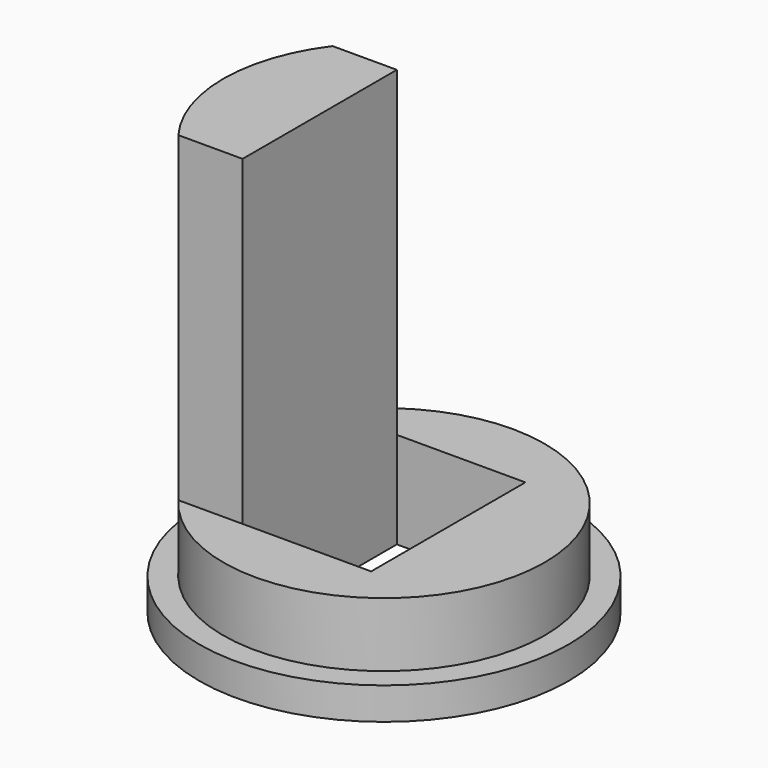
from build123d import *

# Parameters (mm, degrees)
F0_R     = 5
F0_W     = 4
F0_H     = 6
F1_DEPTH = 2
F2_R     = 5.75
F2_W     = 4
F2_H     = 6
F3_DEPTH = 1
F5_DEPTH = 10
F7_DEPTH = 8.751


with BuildPart() as f1:
    # F0 (on Top) → F1 (new body)
    with BuildSketch(Plane.XY):
        with Locations((-2, -3)):
            Circle(F0_R)
        with Locations((-2, -3)):
            Rectangle(F0_W, F0_H, mode=Mode.SUBTRACT)
    extrude(amount=F1_DEPTH)

    # F2 (on face) → F3 (join)
    with BuildSketch(Plane(origin=(0, 0, 0), x_dir=(1, 0, 0), z_dir=(0, 0, -1))):
        with Locations((-2, 3)):
            Circle(F2_R)
        with Locations((-2, 3)):
            Rectangle(F2_W, F2_H, mode=Mode.SUBTRACT)
    extrude(amount=F3_DEPTH)

    # F4 (on face) → F5 (join)
    with BuildSketch(Plane.XY.offset(2)):
        with BuildLine():
            Line((-4, -6), (-4, 0))
            Line((-4, 0), (-6, 0))
            ThreePointArc((-6, 0), (-7, -3), (-6, -6))
            Line((-6, -6), (-4, -6))
        make_face()
    extrude(amount=F5_DEPTH)

    # F6 (on face) → F7 (cut, through all)
    with BuildSketch(Plane(origin=(0, 0, 0), x_dir=(-1, 0, 0), z_dir=(0, 1, 0))):
        with BuildLine():
            Line((7, 2), (7, 11))
            ThreePointArc((7, 11), (6, 6.5), (7, 2))
        make_face()
    extrude(amount=-F7_DEPTH, mode=Mode.SUBTRACT)


solid = f1.part
